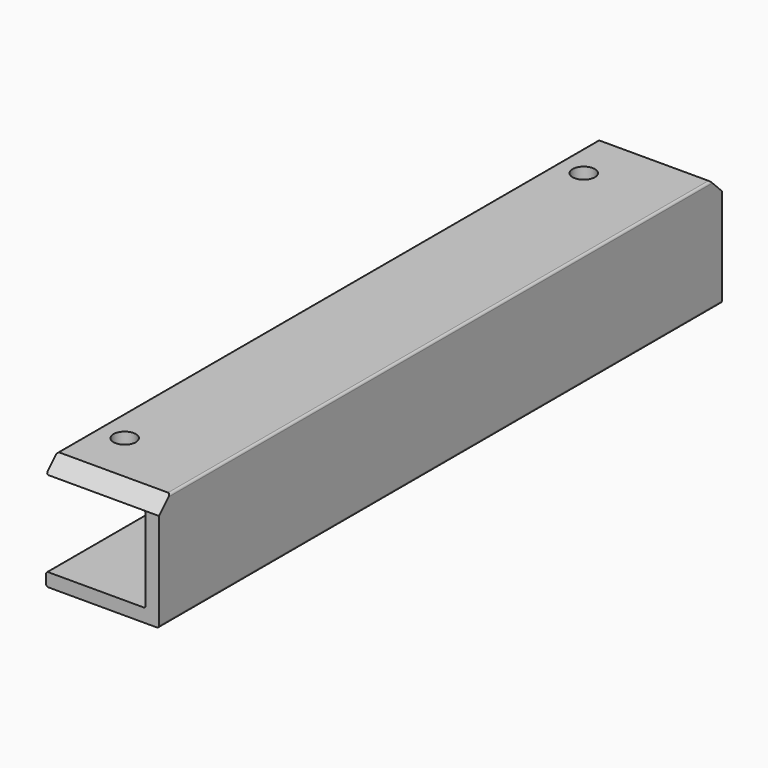
from build123d import *

# Parameters (mm, degrees)
F1_DEPTH = 209.06371
F2_R     = 2.5
F3_DEPTH = 5
F4_W     = 25.4
F4_H     = 25.4
F5_DEPTH = 25.401
F6_R     = 0.5
F8_DEPTH = 25.401


with BuildPart() as f1:
    # F0 (on Front) → F1 (new body)
    with BuildSketch(Plane.XZ):
        Polygon((0, 3), (0, 0), (25.4, 0), (25.4, 25.4), (0, 25.4), (0, 22.225), (22.4, 22.225), (22.4, 3), align=None)
    extrude(amount=F1_DEPTH)

    # F2 (on face) → F3 (cut)
    with BuildSketch(Plane.XY.offset(25.4)):
        with Locations((6, -40)):
            Circle(F2_R)
        with Locations((6, -169.06371)):
            Circle(F2_R)
    extrude(amount=-F3_DEPTH, mode=Mode.SUBTRACT)

    # F4 (on face) → F5 (cut, through all)
    with BuildSketch(Plane.XY.offset(25.4)):
        with Locations((12.7, -12.7)):
            Rectangle(F4_W, F4_H)
        with Locations((12.7, -196.36371)):
            Rectangle(F4_W, F4_H)
    extrude(amount=-F5_DEPTH, mode=Mode.SUBTRACT)

    # F6
    f6_edges = [f1.edges().sort_by_distance(p)[0] for p in [
        (0, -104.531855, 3),
        (0, -104.531855, 0),
        (22.4, -104.531855, 3),
        (0, -104.531855, 22.225),
        (0, -104.531855, 25.4),
        (22.4, -104.531855, 22.225),
        (25.4, -104.531855, 25.4),
        (25.4, -104.531855, 0),
    ]]
    fillet(f6_edges, radius=F6_R)

    # F7 (on face) → F8 (cut, through all)
    with BuildSketch(Plane(origin=(0, 0, 0), x_dir=(0, -1, 0), z_dir=(-1, 0, 0))):
        Polygon((25.4, 25.4), (25.4, 22.225), (28.575, 25.4), align=None)
        Polygon((180.48871, 25.4), (183.66371, 22.225), (183.66371, 25.4), align=None)
    extrude(amount=-F8_DEPTH, mode=Mode.SUBTRACT)


solid = f1.part
